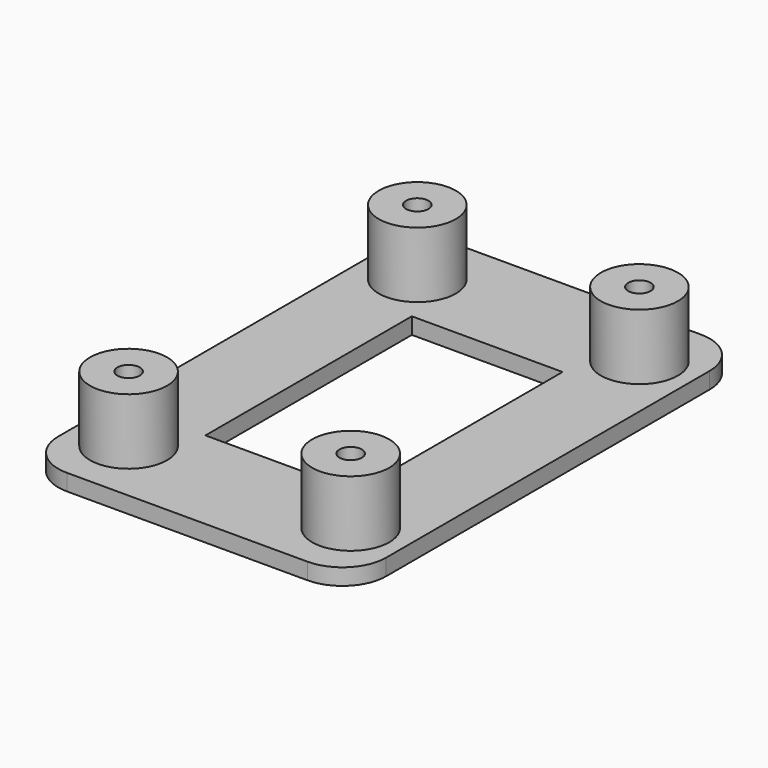
from build123d import *

# Parameters (mm, degrees)
F1_DEPTH = 1.5
F2_R     = 3.525
F2_R_2   = 1.025
F3_DEPTH = 6
F4_W     = 13.78999
F4_H     = 23.601498
F5_DEPTH = 2


with BuildPart() as f1:
    # F0 (on Top) → F1 (new body)
    with BuildSketch(Plane.XY):
        with BuildLine():
            Line((11, 22.5), (-11, 22.5))
            ThreePointArc((-11, 22.5), (-13.828427, 21.328427), (-15, 18.5))
            Line((-15, 18.5), (-15, -18.5))
            ThreePointArc((-15, -18.5), (-13.828427, -21.328427), (-11, -22.5))
            Line((-11, -22.5), (11, -22.5))
            ThreePointArc((11, -22.5), (13.828427, -21.328427), (15, -18.5))
            Line((15, -18.5), (15, 18.5))
            ThreePointArc((15, 18.5), (13.828427, 21.328427), (11, 22.5))
        make_face()
    extrude(amount=F1_DEPTH)

    # F2 (on face) → F3 (join)
    with BuildSketch(Plane.XY.offset(1.5)):
        with Locations((-10.16, 16.51)):
            Circle(F2_R)
        with Locations((-10.16, 16.51)):
            Circle(F2_R_2, mode=Mode.SUBTRACT)
        with Locations((10.16, 16.51)):
            Circle(F2_R)
        with Locations((10.16, 16.51)):
            Circle(F2_R_2, mode=Mode.SUBTRACT)
        with Locations((-10.16, -16.51)):
            Circle(F2_R)
        with Locations((-10.16, -16.51)):
            Circle(F2_R_2, mode=Mode.SUBTRACT)
        with Locations((10.16, -16.51)):
            Circle(F2_R)
        with Locations((10.16, -16.51)):
            Circle(F2_R_2, mode=Mode.SUBTRACT)
    extrude(amount=F3_DEPTH)

    # F4 (on face) → F5 (cut)
    with BuildSketch(Plane.XY.offset(1.5)):
        Rectangle(F4_W, F4_H)
    extrude(amount=-F5_DEPTH, mode=Mode.SUBTRACT)


solid = f1.part
